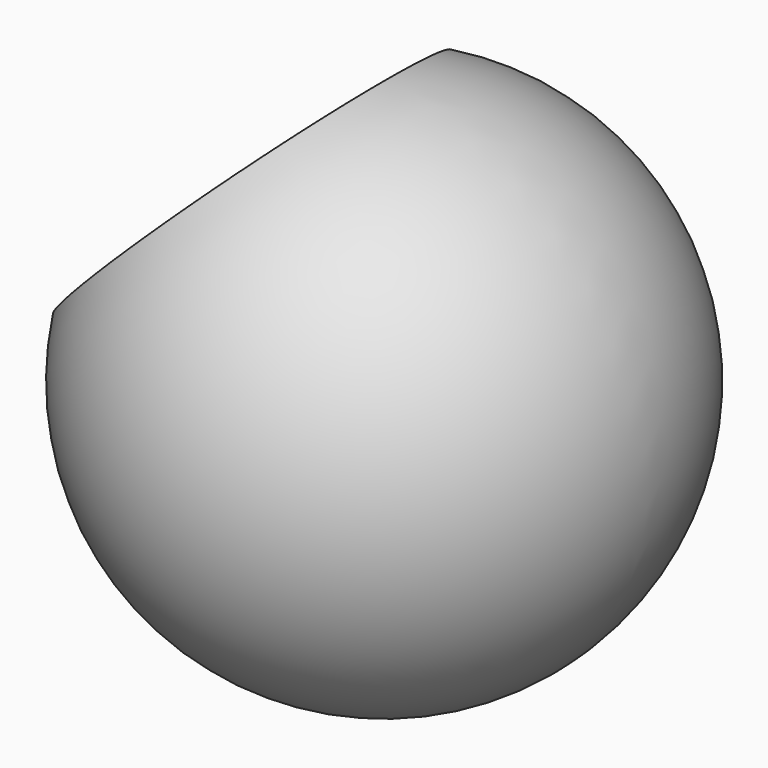
from build123d import *

# Parameters (mm, degrees)
F3_D     = 6.8
F3_DEPTH = 15.75
F3_TIP   = 2.0429261047


with BuildPart() as f1:
    # F0 (on Front) → F1 (revolve)
    with BuildSketch(Plane.XZ):
        with BuildLine():
            Line((-7.5, 7.5), (10.6066017178, -10.6066017178))
            ThreePointArc((10.6066017178, -10.6066017178), (13.8581929877, 5.7402514855), (0, 15))
            Line((0, 15), (-7.5, 7.5))
        make_face()
    revolve(axis=Axis((1.5533008589, 0, -1.5533008589), (0.7071067812, 0, -0.7071067812)))

    # F3
    with Locations(Plane(origin=(-7.5, 0, 7.5), x_dir=(0, -1, 0), z_dir=(-0.7071067812, 0, 0.7071067812))):
        with Locations((0, 0)):
            Hole(F3_D / 2, depth=F3_DEPTH)
            with Locations((0, 0, -(F3_DEPTH + F3_TIP / 2))):  # 118° drill point
                Cone(0, F3_D / 2, F3_TIP, mode=Mode.SUBTRACT)


solid = f1.part
